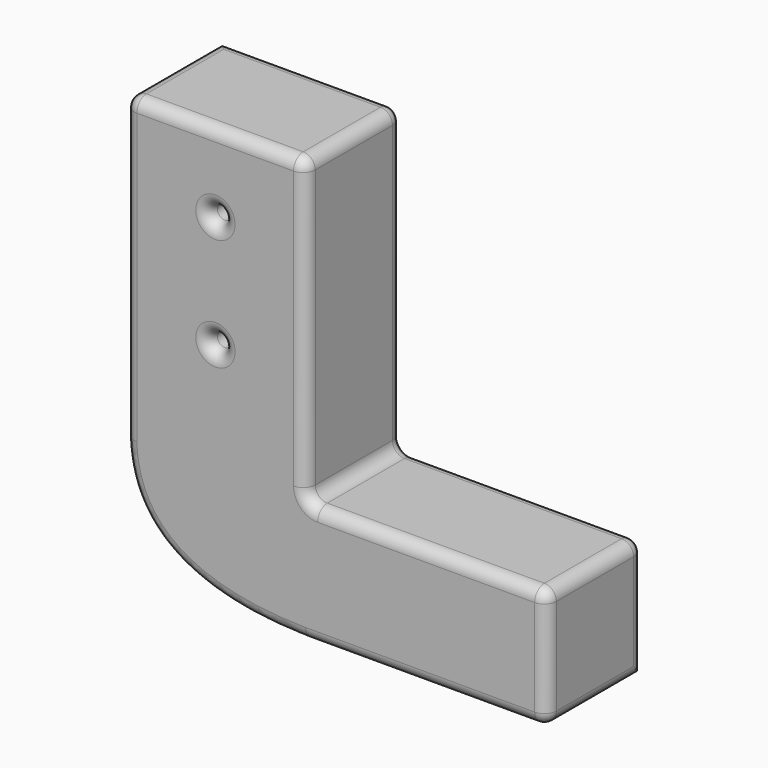
from build123d import *

# Parameters (mm, degrees)
F0_W     = 38.1
F0_H     = 63.5
F0_W_2   = 50.8
F0_H_2   = 25.4
F1_DEPTH = 25.4
F3_D     = 3.2
F4_R     = 2.54


with BuildPart() as f1:
    # F0 (on Front) → F1 (new body)
    with BuildSketch(Plane.XZ):
        with Locations((-19.05, 31.75)):
            Rectangle(F0_W, F0_H)
        with BuildLine():
            Line((0, 0), (-38.1, 0))
            add(Edge.make_bspline(
                [(-38.1, 0), (-37.4712883283, -17.6039609522), (-22.7908427074, -25.0856452655), (0, -25.4)],
                knots=[0, 0, 0, 0, 45.7905011984, 45.7905011984, 45.7905011984, 45.7905011984], degree=3))
            Line((0, -25.4), (0, 0))
        make_face()
        with Locations((25.4, -12.7)):
            Rectangle(F0_W_2, F0_H_2)
    extrude(amount=F1_DEPTH)

    # F3 (through all)
    with Locations(Plane.XZ.offset(25.4)):
        with Locations((-19.0056972206, 47.0490716398), (-19.0056972206, 23.3916286379)):
            Hole(F3_D / 2)

    # F4
    f4_edges = [f1.edges().sort_by_distance(p)[0] for p in [
        (-19.05, -25.4, 63.5),
        (0, -25.4, 31.75),
        (-38.1, -25.4, 31.75),
        (25.4, -25.4, 0),
        (-25.00043, -25.4, -20.504125),
        (50.8, -25.4, -12.7),
        (25.4, -25.4, -25.4),
        (-20.605697, -25.4, 23.391629),
        (-20.605697, -25.4, 47.049072),
        (0, -12.7, 63.5),
        (-38.1, -12.7, 63.5),
        (-19.05, 0, 63.5),
        (0, -12.7, 0),
        (0, 0, 31.75),
        (25.4, 0, 0),
        (50.8, -12.7, -25.4),
        (50.8, -12.7, 0),
        (50.8, 0, -12.7),
    ]]
    fillet(f4_edges, radius=F4_R)


solid = f1.part
